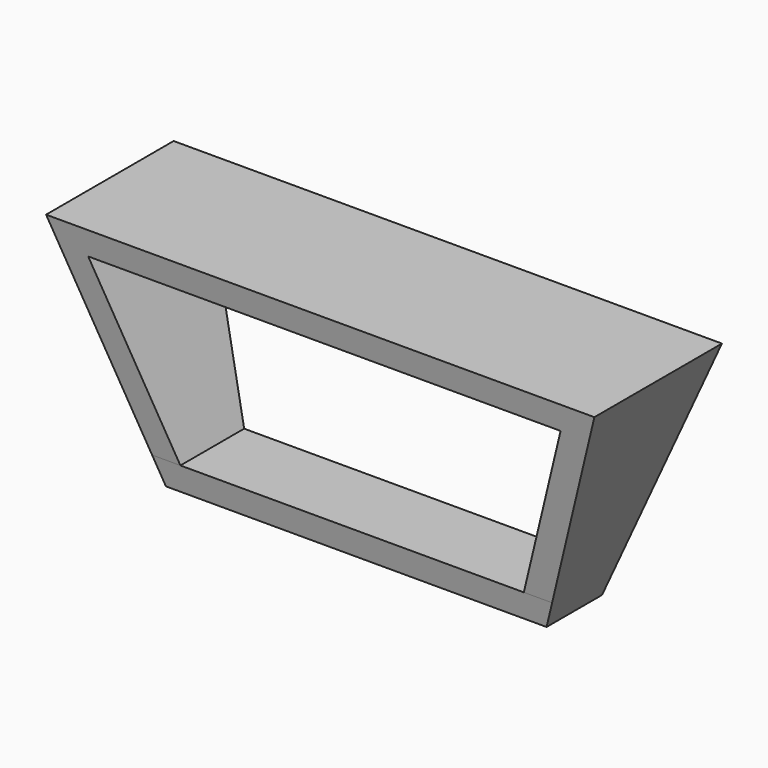
from build123d import *

# Parameters (mm, degrees)
F1_DEPTH = 135
F3_DEPTH = 500


with BuildPart() as f1:
    # F0 (on Front) → F1 (new body, symmetric)
    with BuildSketch(Plane.XZ):
        Polygon((464.26666, 345), (-464.26666, 345), (-322.318269, -45), (322.318269, -45), align=None)
        Polygon((290.80893, 0), (-290.80893, 0), (-400, 300), (400, 300), align=None, mode=Mode.SUBTRACT)
    extrude(amount=F1_DEPTH, both=True)

    # F2 (on Right) → F3 (cut, symmetric)
    with BuildSketch(Plane.YZ):
        Polygon((-67.5, 0), (-135, 345), (135, 345), (67.5, 0), (56.686841, -55.267259), (427.661182, -55.267259), (427.661182, 496.46467), (-274.209738, 496.46467), (-274.209738, -50), (-57.717391, -50), align=None)
    extrude(amount=F3_DEPTH, both=True, mode=Mode.SUBTRACT)


solid = f1.part
